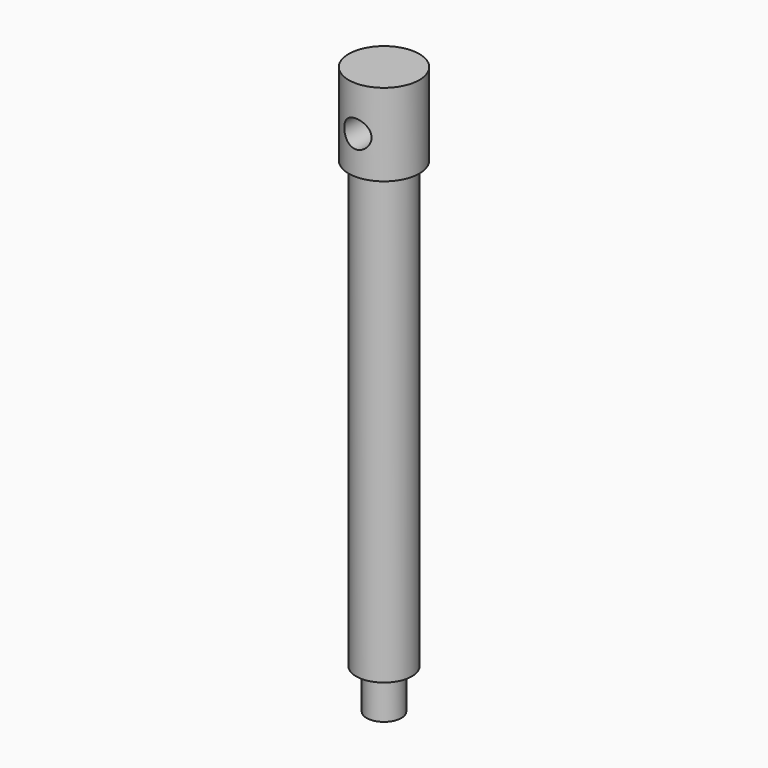
from build123d import *

# Parameters (mm, degrees)
F3_R     = 2.45
F4_DEPTH = 19.651


with BuildPart() as f1:
    # F0 (on Right) → F1 (revolve)
    with BuildSketch(Plane.YZ):
        Polygon((0, -51), (0, 51), (-6.35, 51), (-6.35, 36.2), (-5, 36.2), (-5, -43.8), (-3.125, -43.8), (-3.125, -51), align=None)
    revolve(axis=Axis((0, 0, 0), (0, 0, 1)))

    # F3 (on offset) → F4 (cut, through all)
    with BuildSketch(Plane.XZ.offset(13.3)):
        with Locations((0, 43)):
            Circle(F3_R)
    extrude(amount=-F4_DEPTH, mode=Mode.SUBTRACT)


solid = f1.part
